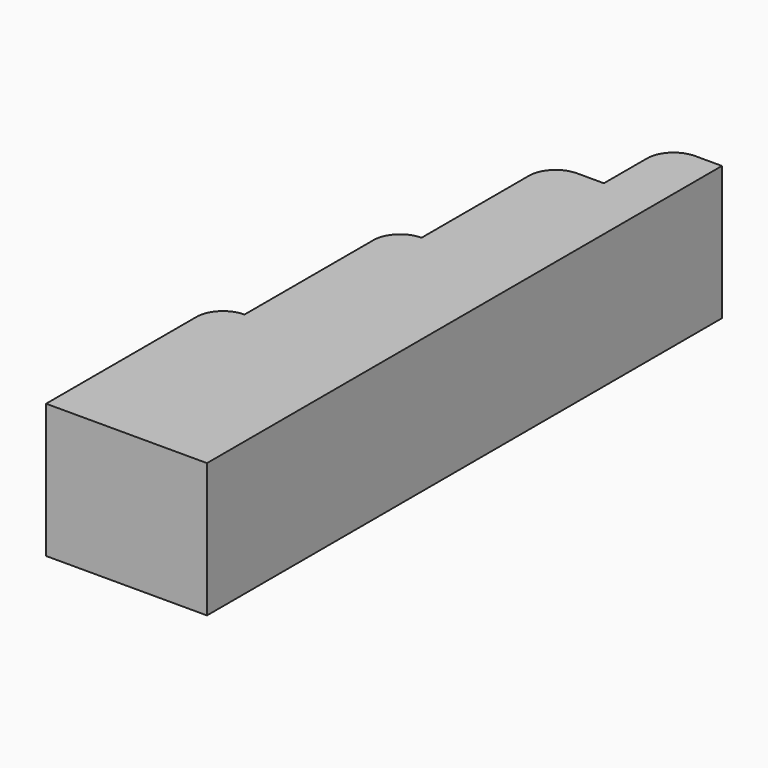
from build123d import *

# Parameters (mm, degrees)
F1_DEPTH = 25


with BuildPart() as f1:
    # F0 (on Top) → F1 (new body)
    with BuildSketch(Plane.XY):
        with BuildLine():
            Line((-28.602151, -27.943548), (-28.602151, -62.943548))
            Line((-28.602151, -62.943548), (1.397849, -62.943548))
            Line((1.397849, -62.943548), (1.397849, 57.056452))
            Line((1.397849, 57.056452), (-3.602151, 57.056452))
            ThreePointArc((-3.602151, 57.056452), (-7.137685, 55.591986), (-8.602151, 52.056452))
            Line((-8.602151, 52.056452), (-8.602151, 42.056452))
            Line((-8.602151, 42.056452), (-13.602151, 42.056452))
            ThreePointArc((-13.602151, 42.056452), (-17.137685, 40.591986), (-18.602151, 37.056452))
            Line((-18.602151, 37.056452), (-18.602151, 12.056452))
            ThreePointArc((-18.602151, 12.056452), (-22.137685, 10.591986), (-23.602151, 7.056452))
            Line((-23.602151, 7.056452), (-23.602151, -22.943548))
            ThreePointArc((-23.602151, -22.943548), (-27.137685, -24.408014), (-28.602151, -27.943548))
        make_face()
    extrude(amount=F1_DEPTH)


solid = f1.part
